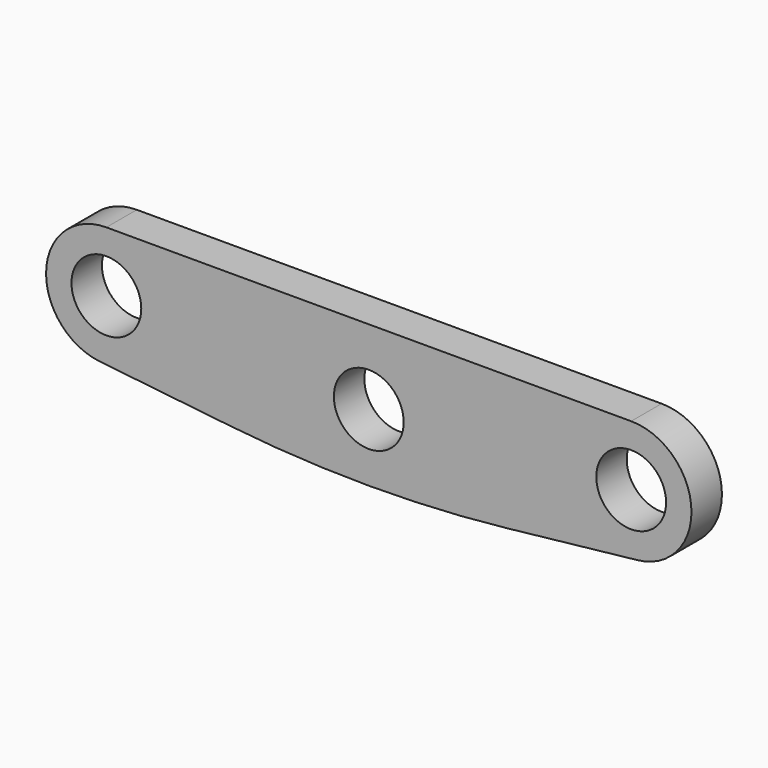
from build123d import *

# Parameters (mm, degrees)
F0_R     = 5.5
F1_DEPTH = 6
F2_R     = 200


with BuildPart() as f1:
    # F0 (on Front) → F1 (new body)
    with BuildSketch(Plane.XZ):
        with BuildLine():
            Line((41.35, 11.8), (-41.35, 11.8))
            ThreePointArc((-41.35, 11.8), (-50.835785, 2.819506), (-42.387457, -7.143182))
            Line((-42.387457, -7.143182), (0, -11.8))
            Line((0, -11.8), (42.387457, -7.143182))
            ThreePointArc((42.387457, -7.143182), (50.835785, 2.819506), (41.35, 11.8))
        make_face()
        Circle(F0_R, mode=Mode.SUBTRACT)
        with Locations((-41.35, 2.3)):
            Circle(F0_R, mode=Mode.SUBTRACT)
        with Locations((41.35, 2.3)):
            Circle(F0_R, mode=Mode.SUBTRACT)
    extrude(amount=F1_DEPTH)

    # F2
    f2_edges = [f1.edges().sort_by_distance(p)[0] for p in [
        (0, -3, -11.8),
    ]]
    fillet(f2_edges, radius=F2_R)


solid = f1.part
